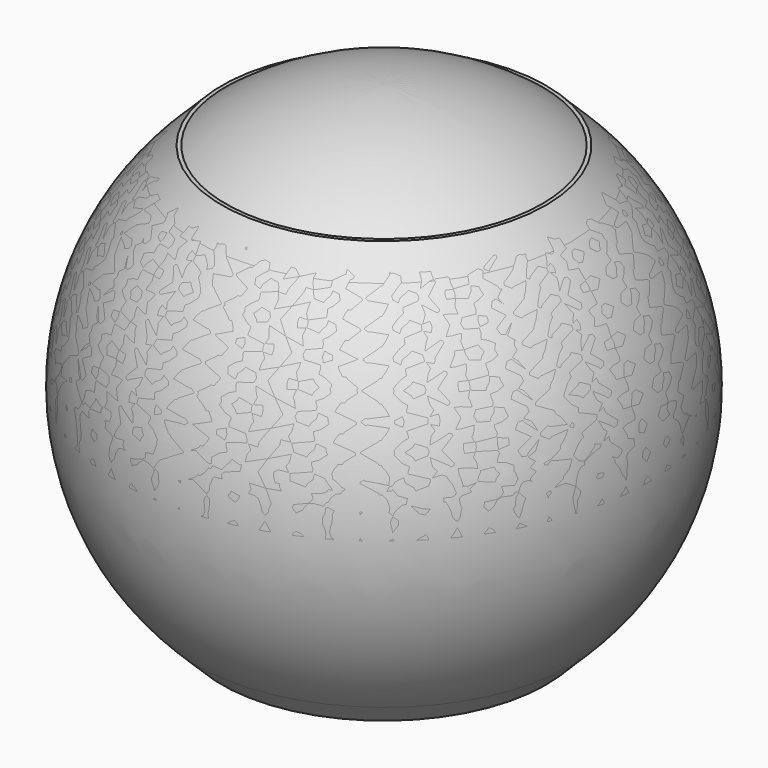
from build123d import *


with BuildPart() as f1:
    # F0 (on Front) → F1 (revolve)
    with BuildSketch(Plane.XZ):
        with BuildLine():
            Line((0, 0), (50, 0))
            ThreePointArc((50, 0), (35.355339, 35.355339), (0, 50))
            Line((0, 50), (0, 0))
        make_face()
    revolve(axis=Axis((0, 0, 25), (0, 0, -1)))


with BuildPart() as f3:
    # F2 (on Front) → F3 (revolve)
    with BuildSketch(Plane.XZ):
        with BuildLine():
            Line((30.710678, -40), (35.355339, -35.355339))
            ThreePointArc((35.355339, -35.355339), (50, 0), (35.355339, 35.355339))
            Line((35.355339, 35.355339), (30.710678, 40))
            Line((30.710678, 40), (0, 40))
            Line((0, 40), (0, -40))
            Line((0, -40), (30.710678, -40))
        make_face()
    revolve(axis=Axis((0, 0, 0), (0, 0, -1)))


solid = Compound([f1.part, f3.part])
